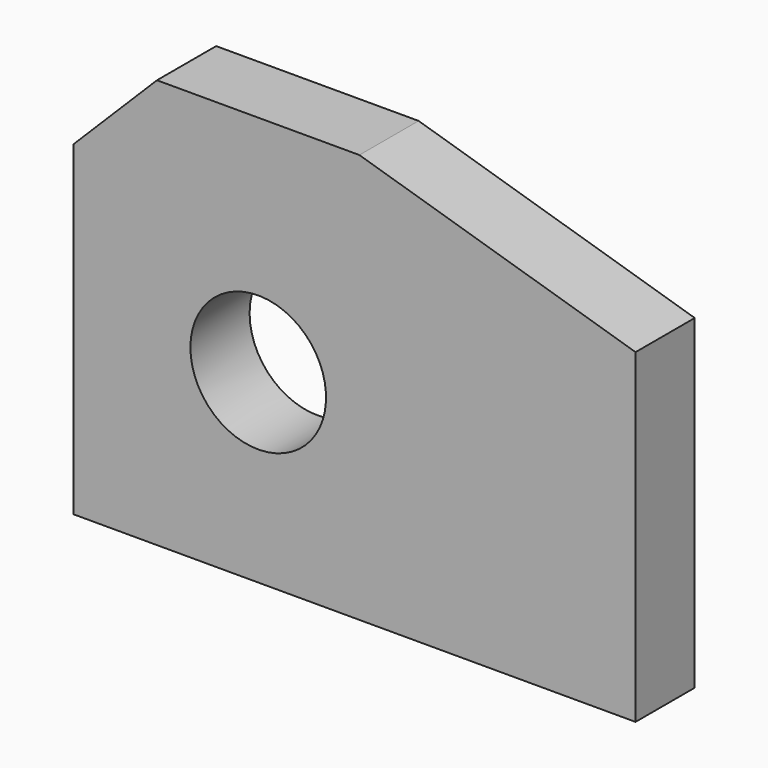
from build123d import *

# Parameters (mm, degrees)
F1_DEPTH = 30


with BuildPart() as f1:
    # F0 (on Front) → F1 (new body)
    with BuildSketch(Plane.XZ):
        with BuildLine():
            ThreePointArc((-2.471096, -22.384027), (-29.971096, 5.115973), (-57.471096, -22.384027))
            ThreePointArc((-57.471096, -22.384027), (-29.971096, -49.884027), (-2.471096, -22.384027))
        make_face()
        Polygon((-71.02997, 68.557098), (-104.971096, 34.615973), (-104.971096, -22.384027), (-104.971096, -97.384027), (123.028904, -97.384027), (123.028904, 34.615973), (11.060159, 68.557098), align=None)
        with BuildLine():
            ThreePointArc((-2.471096, -22.384027), (-29.971096, -49.884027), (-57.471096, -22.384027))
            ThreePointArc((-57.471096, -22.384027), (-29.971096, 5.115973), (-2.471096, -22.384027))
        make_face(mode=Mode.SUBTRACT)
    extrude(amount=F1_DEPTH)


solid = f1.part
